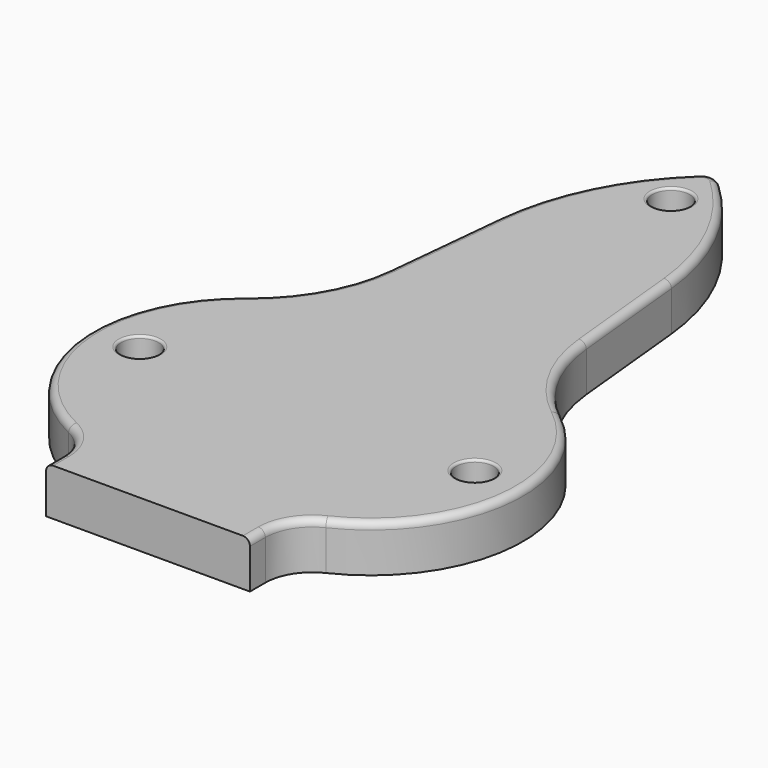
from build123d import *

# Parameters (mm, degrees)
F0_R     = 8
F1_DEPTH = 20
F2_R     = 3
F3_R     = 1


with BuildPart() as f1:
    # F0 (on Top) → F1 (new body)
    with BuildSketch(Plane.XY):
        with BuildLine():
            Line((-43.5, -85), (0, -85))
            Line((0, -85), (43.5, -85))
            Line((43.5, -85), (43.5, -76.764249))
            ThreePointArc((43.5, -76.764249), (46.591944, -66.081663), (54.911765, -58.702073))
            ThreePointArc((54.911765, -58.702073), (91.61519, -7.06238), (66.93343, 51.286657))
            ThreePointArc((66.93343, 51.286657), (49.963072, 71.157412), (42.189443, 96.105572))
            Line((42.189443, 96.105572), (37, 148))
            ThreePointArc((37, 148), (26.594735, 184.193845), (4.090054, 214.389927))
            ThreePointArc((4.090054, 214.389927), (0, 216), (-4.090054, 214.389927))
            ThreePointArc((-4.090054, 214.389927), (-26.594735, 184.193845), (-37, 148))
            Line((-37, 148), (-42.189443, 96.105572))
            ThreePointArc((-42.189443, 96.105572), (-49.963072, 71.157412), (-66.93343, 51.286657))
            ThreePointArc((-66.93343, 51.286657), (-91.61519, -7.06238), (-54.911765, -58.702073))
            ThreePointArc((-54.911765, -58.702073), (-46.591944, -66.081663), (-43.5, -76.764249))
            Line((-43.5, -76.764249), (-43.5, -85))
        make_face()
        with Locations((-71.5, 0)):
            Circle(F0_R, mode=Mode.SUBTRACT)
        with Locations((71.5, 0)):
            Circle(F0_R, mode=Mode.SUBTRACT)
        with Locations((0, 194)):
            Circle(F0_R, mode=Mode.SUBTRACT)
    extrude(amount=F1_DEPTH)

    # F2
    f2_edges = [f1.edges().sort_by_distance(p)[0] for p in [
        (39.594721, 122.052786, 20),
    ]]
    fillet(f2_edges, radius=F2_R)

    # F3
    f3_edges = [f1.edges().sort_by_distance(p)[0] for p in [
        (-8, 194, 20),
        (-79.5, 0, 20),
        (63.5, 0, 20),
    ]]
    fillet(f3_edges, radius=F3_R)


solid = f1.part
